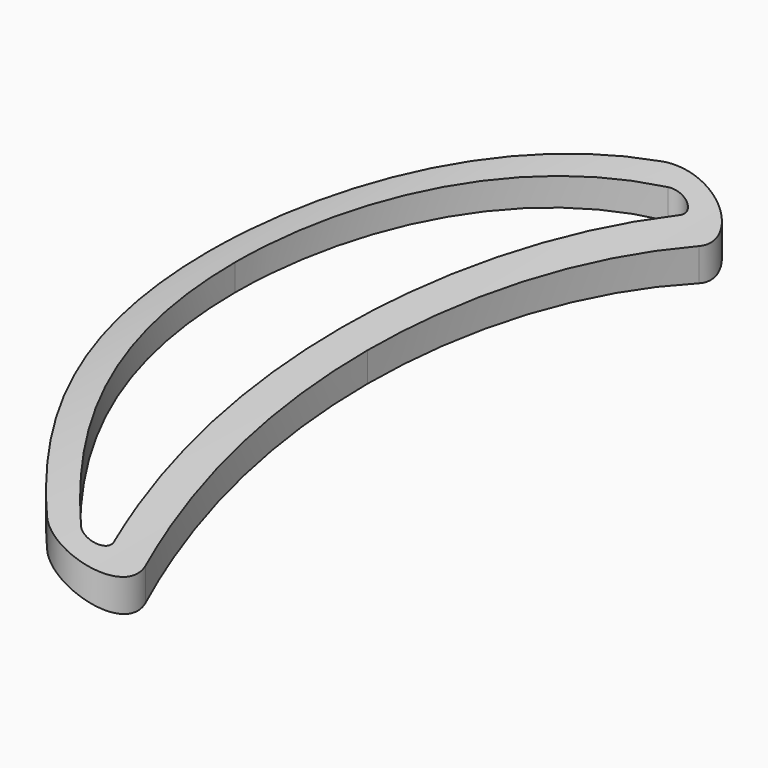
from build123d import *

# Parameters (mm, degrees)
PAD_DEPTH    = 120
SKETCH001_W  = 106.691582
SKETCH001_H  = 157.654909
POCKET_DEPTH = 17.1595098612


with BuildPart() as part:
    # Sketch → Pad (new body)
    with BuildSketch(Plane.XZ):
        with BuildLine():
            ThreePointArc((35, -12), (18.5, -3.0833333333), (0, 0))
            Line((0, 0), (0, -4))
            ThreePointArc((32.5456537619, -15.1585098612), (17.2027027027, -6.8671171171), (0, -4))
            Line((32.5456537619, -15.1585098612), (35, -12))
        make_face()
    extrude(amount=PAD_DEPTH)

    # Sketch001 (on DatumPlane) → Pocket (cut, through all)
    with BuildSketch(Plane.XY.offset(2)):
        with Locations((20.474781, -55.6624445)):
            Rectangle(SKETCH001_W, SKETCH001_H)
        with BuildLine():
            ThreePointArc((32.2524687129, -7.8526368005), (29.5296070486, -0.7946159813), (22.0631189103, -2.0116568221))
            ThreePointArc((22.0631189103, -2.0116568221), (5.7021367812, -28.9781159479), (0, -60))
            ThreePointArc((0, -60), (5.7021367812, -91.0218840521), (22.0631189103, -117.9883431779))
            ThreePointArc((22.0631189103, -117.9883431779), (29.5296070486, -119.2053840187), (32.2524687129, -112.1473631995))
            ThreePointArc((24, -60), (26.075875076, -86.3981567942), (32.2524687129, -112.1473631995))
            ThreePointArc((32.2524687129, -7.8526368005), (26.075875076, -33.6018432058), (24, -60))
        make_face(mode=Mode.SUBTRACT)
        with BuildLine():
            ThreePointArc((25.051475478, -115.329447726), (27.5403048575, -115.7351280062), (28.4479254122, -113.3824543998))
            ThreePointArc((20, -60), (22.1250414169, -87.0233874705), (28.4479254122, -113.3824543998))
            ThreePointArc((28.4479254122, -6.6175456002), (22.1250414169, -32.9766125295), (20, -60))
            ThreePointArc((28.4479254122, -6.6175456002), (27.5403048575, -4.2648719938), (25.051475478, -4.670552274))
            ThreePointArc((25.051475478, -4.670552274), (9.4406810347, -30.4005388332), (4, -60))
            ThreePointArc((4, -60), (9.4406810347, -89.5994611668), (25.051475478, -115.329447726))
        make_face()
    extrude(amount=-POCKET_DEPTH, mode=Mode.SUBTRACT)


solid = part.part
